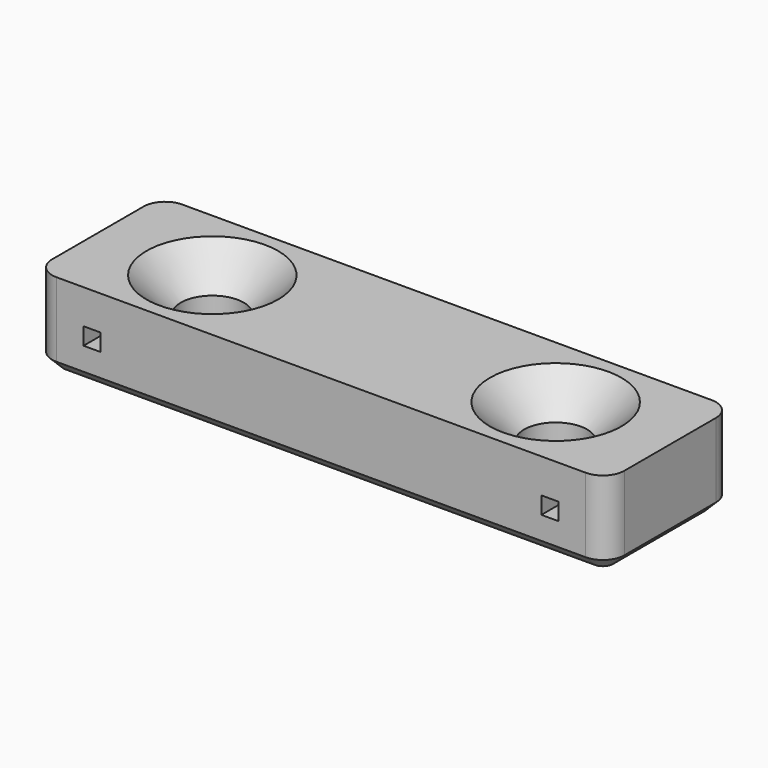
from build123d import *

# Parameters (mm, degrees)
SKETCH_W        = 10
SKETCH_H        = 5.5
PAD_DEPTH       = 3
SKETCH001_R     = 1.1
POCKET_DEPTH    = 3.001
SKETCH002_W     = 0.6
SKETCH002_H     = 0.6
POCKET001_DEPTH = 5.501
FILLET_R        = 0.75
CHAMFER_SIZE    = 1.2
CHAMFER001_SIZE = 0.4


with BuildPart() as part:
    # Sketch → Pad (new body)
    with BuildSketch(Plane.XY):
        with Locations((-5, 0)):
            Rectangle(SKETCH_W, SKETCH_H)
    extrude(amount=PAD_DEPTH)

    # Sketch001 (on Face6 of Pad) → Pocket (cut, through all)
    with BuildSketch(Plane.XY.offset(3)):
        with Locations((-6, 0)):
            Circle(SKETCH001_R)
    extrude(amount=-POCKET_DEPTH, mode=Mode.SUBTRACT)

    # Sketch002 (on Face1 of Pocket) → Pocket001 (cut, through all)
    with BuildSketch(Plane.XZ.offset(2.75)):
        with Locations((-8, 1.5)):
            Rectangle(SKETCH002_W, SKETCH002_H)
    extrude(amount=-POCKET001_DEPTH, mode=Mode.SUBTRACT)

    # Fillet
    fillet_edges = [part.edges().sort_by_distance(p)[0] for p in [
        (-10, -2.75, 1.5),
        (-10, 2.75, 1.5),
    ]]
    fillet(fillet_edges, radius=FILLET_R)

    # Mirrored: part across YZ


with BuildPart() as part_1:
    add(part.part)
    add(part.part.mirror(Plane.YZ))

    # Chamfer
    chamfer_edges = [part_1.edges().sort_by_distance(p)[0] for p in [
        (-7.1, 0, 3),
        (7.1, 0, 3),
    ]]
    chamfer(chamfer_edges, length=CHAMFER_SIZE)

    # Chamfer001
    chamfer001_edges = [part_1.edges().sort_by_distance(p)[0] for p in [
        (0, -2.75, 0),
    ]]
    chamfer(chamfer001_edges, length=CHAMFER001_SIZE)


solid = part_1.part
